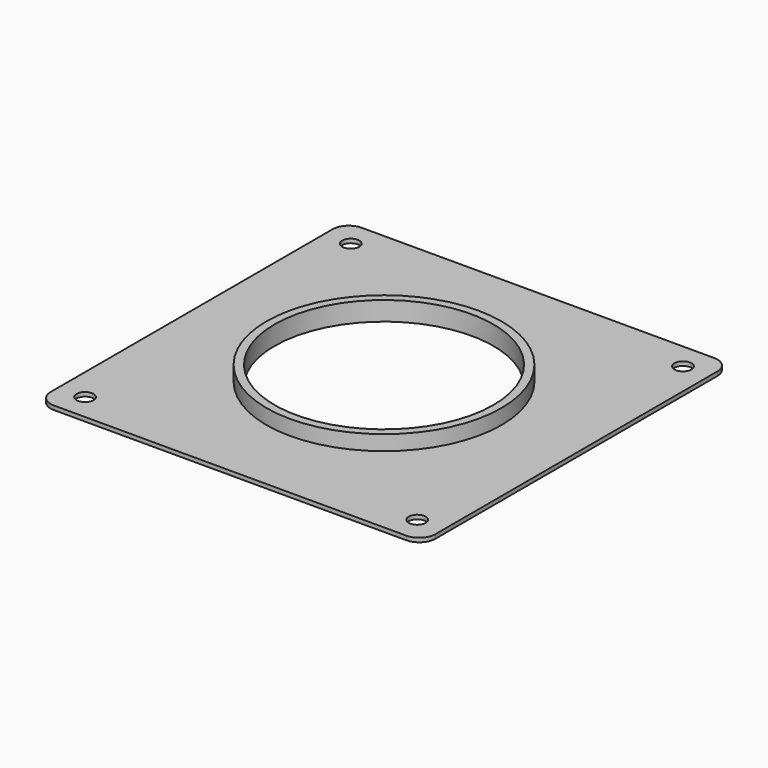
from build123d import *

# Parameters (mm, degrees)
F0_R     = 2.1
F0_R_2   = 29
F0_R_3   = 27
F1_DEPTH = 1
F2_DEPTH = 4.7


with BuildPart() as f1:
    # F0 (on Top) → F1 (new body)
    with BuildSketch(Plane.XY):
        with BuildLine():
            Line((-43.5, -47.5), (43.5, -47.5))
            ThreePointArc((43.5, -47.5), (46.328427, -46.328427), (47.5, -43.5))
            Line((47.5, -43.5), (47.5, 43.5))
            ThreePointArc((47.5, 43.5), (46.328427, 46.328427), (43.5, 47.5))
            Line((43.5, 47.5), (-43.5, 47.5))
            ThreePointArc((-43.5, 47.5), (-46.328427, 46.328427), (-47.5, 43.5))
            Line((-47.5, 43.5), (-47.5, -43.5))
            ThreePointArc((-47.5, -43.5), (-46.328427, -46.328427), (-43.5, -47.5))
        make_face()
        with Locations((-41, -41)):
            Circle(F0_R, mode=Mode.SUBTRACT)
        with Locations((41, -41)):
            Circle(F0_R, mode=Mode.SUBTRACT)
        with Locations((-41, 41)):
            Circle(F0_R, mode=Mode.SUBTRACT)
        Circle(F0_R_2, mode=Mode.SUBTRACT)
        with Locations((41, 41)):
            Circle(F0_R, mode=Mode.SUBTRACT)
        Circle(F0_R_2)
        Circle(F0_R_3, mode=Mode.SUBTRACT)
    extrude(amount=F1_DEPTH)

    # F0 (on Top) → F2 (join)
    with BuildSketch(Plane.XY):
        Circle(F0_R_2)
        Circle(F0_R_3, mode=Mode.SUBTRACT)
    extrude(amount=F2_DEPTH)


solid = f1.part
